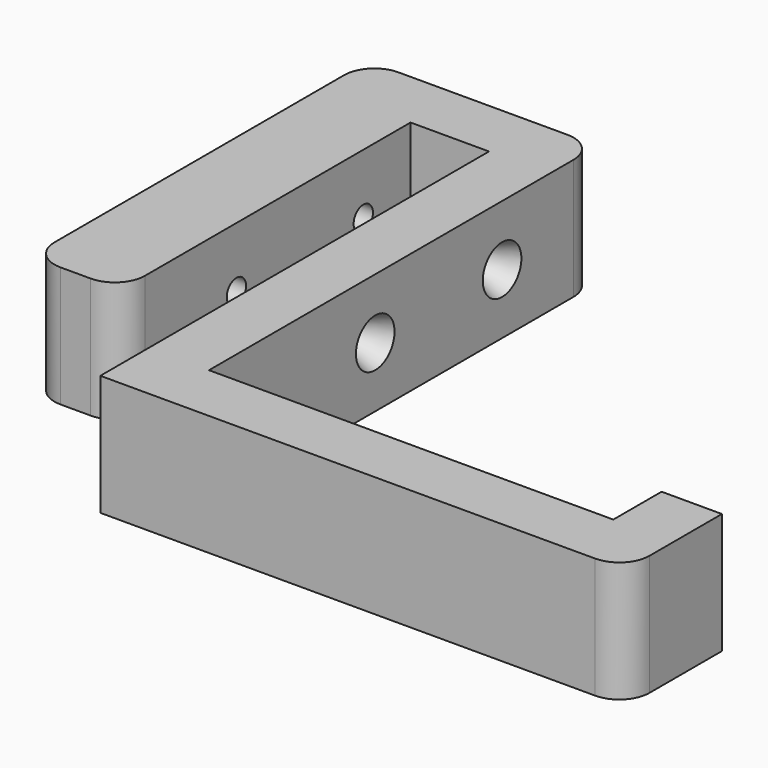
from build123d import *

# Parameters (mm, degrees)
F1_DEPTH       = 20
F2_R           = 5
F3_R           = 5
F4_R           = 5
F6_D           = 4
F6_CSINK_D     = 8
F6_CSINK_ANGLE = 45


with BuildPart() as f1:
    # F0 (on Top) → F1 (new body)
    with BuildSketch(Plane.XY):
        Polygon((0, 80.5), (0, 0), (87, 0), (87, 20), (77, 20), (77, 10), (10, 10), (10, 90.5), (-28, 90.5), (-28, 20.5), (-13, 20.5), (-13, 80.5), align=None)
    extrude(amount=F1_DEPTH)

    # F2
    f2_edges = [f1.edges().sort_by_distance(p)[0] for p in [
        (87, 0, 10),
    ]]
    fillet(f2_edges, radius=F2_R)

    # F3
    f3_edges = [f1.edges().sort_by_distance(p)[0] for p in [
        (-13, 20.5, 10),
        (-28, 20.5, 10),
    ]]
    fillet(f3_edges, radius=F3_R)

    # F4
    f4_edges = [f1.edges().sort_by_distance(p)[0] for p in [
        (-28, 90.5, 10),
        (10, 90.5, 10),
    ]]
    fillet(f4_edges, radius=F4_R)

    # F6 (through all)
    with Locations(Plane.YZ.offset(10)):
        with Locations((70.712887, 10), (44.433817, 10)):
            CounterSinkHole(F6_D / 2, F6_CSINK_D / 2, counter_sink_angle=F6_CSINK_ANGLE)


solid = f1.part
